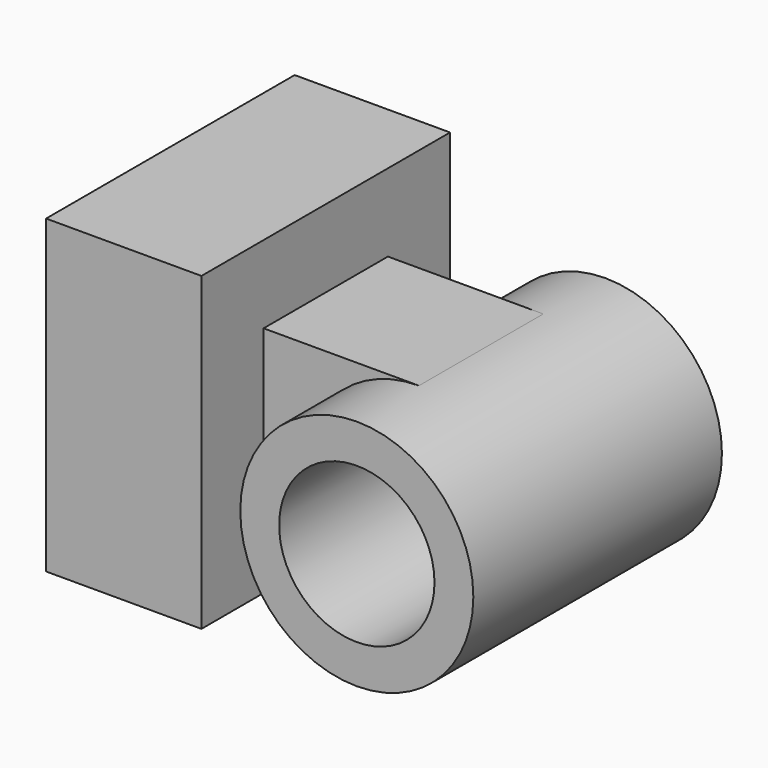
from build123d import *

# Parameters (mm, degrees)
F0_W     = 25.4
F0_H     = 25.4
F1_DEPTH = 12.7
F2_W     = 12.7
F2_H     = 12.7
F3_DEPTH = 12.7
F4_R     = 9.525
F5_DEPTH = 25.4
F6_R     = 6.35
F7_DEPTH = 25.4


with BuildPart() as f1:
    # F0 (on Right) → F1 (new body)
    with BuildSketch(Plane.YZ):
        with Locations((12.7, 12.7)):
            Rectangle(F0_W, F0_H)
    extrude(amount=F1_DEPTH)

    # F2 (on face) → F3 (join)
    with BuildSketch(Plane.YZ.offset(12.7)):
        with Locations((12.7, 12.7)):
            Rectangle(F2_W, F2_H)
    extrude(amount=F3_DEPTH)

    # F4 (on Front) → F5 (join)
    with BuildSketch(Plane.XZ):
        with Locations((25.4, 9.525)):
            Circle(F4_R)
    extrude(amount=-F5_DEPTH)

    # F6 (on face) → F7 (cut)
    with BuildSketch(Plane.XZ):
        with Locations((25.4, 9.525)):
            Circle(F6_R)
    extrude(amount=-F7_DEPTH, mode=Mode.SUBTRACT)


solid = f1.part
